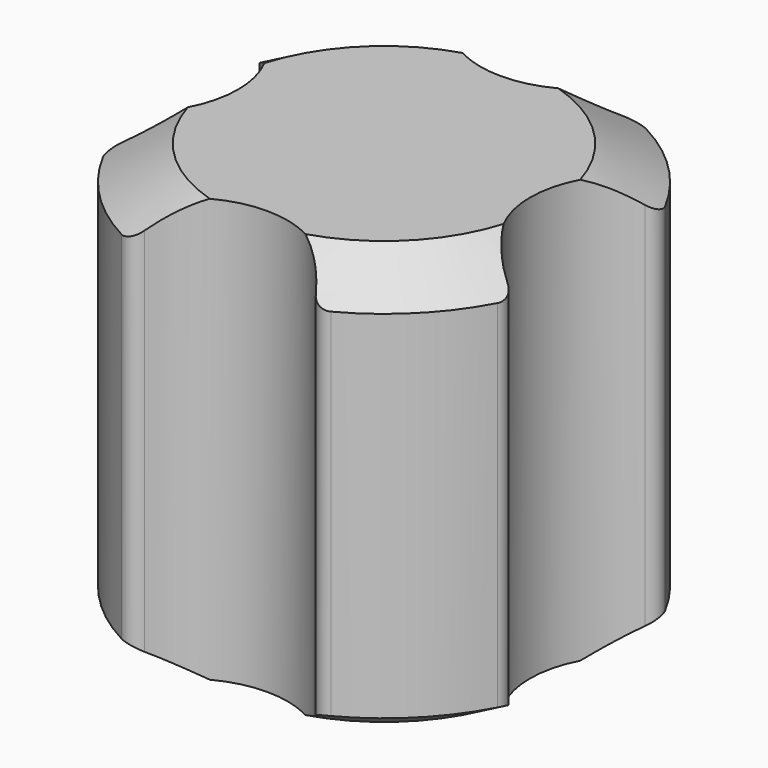
from build123d import *

# Parameters (mm, degrees)
F1_DEPTH = 7.25
F2_R     = 0.5


with BuildPart() as f1:
    # F0 (on Top) → F1 (new body, symmetric)
    with BuildSketch(Plane.XY):
        with BuildLine():
            ThreePointArc((-6.9704381548, 3.1520615364), (-5, 0), (-6.9704381548, -3.1520615364))
            ThreePointArc((-6.9704381548, -3.1520615364), (-5.4093668761, -5.4093668761), (-3.1520615364, -6.9704381548))
            ThreePointArc((-3.1520615364, -6.9704381548), (0, -5), (3.1520615364, -6.9704381548))
            ThreePointArc((3.1520615364, -6.9704381548), (5.4093668761, -5.4093668761), (6.9704381548, -3.1520615364))
            ThreePointArc((6.9704381548, -3.1520615364), (5, 0), (6.9704381548, 3.1520615364))
            ThreePointArc((6.9704381548, 3.1520615364), (5.4093668761, 5.4093668761), (3.1520615364, 6.9704381548))
            ThreePointArc((3.1520615364, 6.9704381548), (0, 5), (-3.1520615364, 6.9704381548))
            ThreePointArc((-3.1520615364, 6.9704381548), (-5.4093668761, 5.4093668761), (-6.9704381548, 3.1520615364))
        make_face()
    extrude(amount=F1_DEPTH, both=True)

    # F2
    f2_edges = [f1.edges().sort_by_distance(p)[0] for p in [
        (-3.152062, 6.970438, 0),
        (-6.970438, 3.152062, 0),
        (-6.970438, -3.152062, 0),
        (-3.152062, -6.970438, 0),
        (3.152062, -6.970438, 0),
        (6.970438, -3.152062, 0),
        (6.970438, 3.152062, 0),
        (3.152062, 6.970438, 0),
    ]]
    fillet(f2_edges, radius=F2_R)

    # F3 (on Right) → F4 (revolve, cut)
    with BuildSketch(Plane.YZ):
        Polygon((-7.65, 6.0952994616), (-5.65, 7.25), (-7.65, 7.25), align=None)
        Polygon((-5.65, -7.25), (-7.65, -6.0952994616), (-7.65, -7.25), align=None)
    revolve(axis=Axis((0, 0, 0.0045555644), (0, 0, -1)), mode=Mode.SUBTRACT)


solid = f1.part
